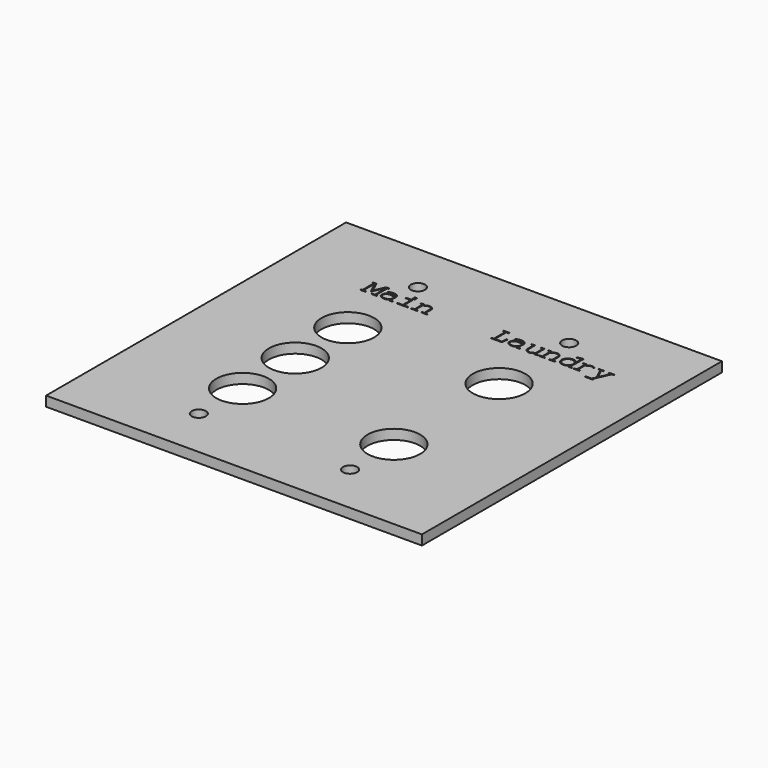
from build123d import *

# Parameters (mm, degrees)
SHELL_W          = 0.880734
SHELL_H          = 0.704587
EXTRUDE004_DEPTH = 2
SKETCH_W         = 114.3
SKETCH_H         = 114.046
SKETCH_R         = 8
SKETCH_R_2       = 2.16
EXTRUDE_DEPTH    = 3


with BuildPart() as labels:
    # Shell → Extrude004 (new body)
    with BuildSketch(Plane(origin=(33.394184, 34.246578, 0), x_dir=(0, 1, 0), z_dir=(0, 0, 1))):
        with BuildLine():
            add(Edge.make_bspline(
                [(0.880028, -2.110404), (1.012138, -2.003064), (1.18278, -1.606734)],
                knots=[0, 0, 0, 1, 1, 1], degree=2))
            Line((0.880028, -2.110404), (1.089202, -2.371872))
            add(Edge.make_bspline(
                [(1.191037, -2.264532), (1.147, -2.32233), (1.089202, -2.371872)],
                knots=[0, 0, 0, 1, 1, 1], degree=2))
            add(Edge.make_bspline(
                [(1.595624, -1.262697), (1.595624, -1.802147), (1.191037, -2.264532)],
                knots=[0, 0, 0, 1, 1, 1], degree=2))
            add(Edge.make_bspline(
                [(1.193789, -0.059945), (1.595624, -0.69022), (1.595624, -1.262697)],
                knots=[0, 0, 0, 1, 1, 1], degree=2))
            add(Edge.make_bspline(
                [(0.995624, 0.267578), (1.177276, -0.032422), (1.193789, -0.059945)],
                knots=[0, 0, 0, 1, 1, 1], degree=2))
            Line((0.995624, 0.267578), (1.452505, 0.267578))
            Line((1.452505, 0.267578), (1.452505, 1.324459))
            Line((1.452505, 1.324459), (1.133239, 1.324459))
            Line((1.133239, 1.324459), (1.133239, 0.58134))
            Line((1.133239, 0.58134), (-1.927311, 0.58134))
            Line((-1.927311, 0.58134), (-1.927311, 1.324459))
            Line((-1.927311, 1.324459), (-2.246578, 1.324459))
            Line((-2.246578, 1.324459), (-2.246578, -0.437009))
            Line((-2.246578, -0.437009), (-1.927311, -0.437009))
            Line((-1.927311, -0.437009), (-1.927311, 0.267578))
            Line((-1.927311, 0.267578), (0.61856, 0.267578))
            add(Edge.make_bspline(
                [(0.731404, 0.107945), (0.673606, 0.190514), (0.61856, 0.267578)],
                knots=[0, 0, 0, 1, 1, 1], degree=2))
            add(Edge.make_bspline(
                [(1.276358, -1.270954), (1.276358, -0.731505), (0.731404, 0.107945)],
                knots=[0, 0, 0, 1, 1, 1], degree=2))
            add(Edge.make_bspline(
                [(1.18278, -1.606734), (1.276358, -1.405816), (1.276358, -1.270954)],
                knots=[0, 0, 0, 1, 1, 1], degree=2))
        make_face()
        Polygon((2.366267, 26.51345), (2.366267, 25.808862), (-1.952082, 25.808862), (-1.952082, 26.51345), (-2.246578, 26.51345), (-2.246578, 23.103358), (-0.300706, 22.932716), (-0.300706, 23.221706), (-1.952082, 23.397853), (-1.952082, 25.495101), (2.366267, 25.495101), (2.366267, 24.751982), (2.685533, 24.751982), (2.685533, 26.51345), align=None)
        with BuildLine():
            add(Edge.make_bspline(
                [(0.995624, 49.660239), (1.166267, 49.376752), (1.191037, 49.327211)],
                knots=[0, 0, 0, 1, 1, 1], degree=2))
            add(Edge.make_bspline(
                [(1.452505, 49.668495), (1.3259, 49.660239), (0.995624, 49.660239)],
                knots=[0, 0, 0, 1, 1, 1], degree=2))
            Line((1.452505, 49.668495), (1.452505, 50.717119))
            Line((1.452505, 50.717119), (1.133239, 50.717119))
            Line((1.133239, 50.717119), (1.133239, 49.974))
            Line((1.133239, 49.974), (-1.927311, 49.974))
            Line((-1.927311, 49.974), (-1.927311, 50.717119))
            Line((-1.927311, 50.717119), (-2.246578, 50.717119))
            Line((-2.246578, 50.717119), (-2.246578, 48.955651))
            Line((-2.246578, 48.955651), (-1.927311, 48.955651))
            Line((-1.927311, 48.955651), (-1.927311, 49.660239))
            Line((-1.927311, 49.660239), (0.621312, 49.660239))
            add(Edge.make_bspline(
                [(0.646083, 49.660239), (0.637826, 49.660239), (0.621312, 49.660239)],
                knots=[0, 0, 0, 1, 1, 1], degree=2))
            add(Edge.make_bspline(
                [(1.276358, 48.179505), (1.276358, 48.751982), (0.646083, 49.660239)],
                knots=[0, 0, 0, 1, 1, 1], degree=2))
            add(Edge.make_bspline(
                [(0.973606, 47.40611), (1.276358, 47.783174), (1.276358, 48.179505)],
                knots=[0, 0, 0, 1, 1, 1], degree=2))
            add(Edge.make_bspline(
                [(0.346083, 47.018037), (0.651588, 47.018037), (0.973606, 47.40611)],
                knots=[0, 0, 0, 1, 1, 1], degree=2))
            Line((0.346083, 47.018037), (-1.927311, 47.018037))
            Line((-1.927311, 47.018037), (-1.927311, 47.722624))
            Line((-1.927311, 47.722624), (-2.246578, 47.722624))
            Line((-2.246578, 47.722624), (-2.246578, 45.961156))
            Line((-2.246578, 45.961156), (-1.927311, 45.961156))
            Line((-1.927311, 45.961156), (-1.927311, 46.704275))
            Line((-1.927311, 46.704275), (0.343331, 46.704275))
            add(Edge.make_bspline(
                [(1.119478, 47.086844), (0.736909, 46.704275), (0.343331, 46.704275)],
                knots=[0, 0, 0, 1, 1, 1], degree=2))
            add(Edge.make_bspline(
                [(1.595624, 48.154734), (1.595624, 47.574), (1.119478, 47.086844)],
                knots=[0, 0, 0, 1, 1, 1], degree=2))
            add(Edge.make_bspline(
                [(1.191037, 49.327211), (1.595624, 48.64189), (1.595624, 48.154734)],
                knots=[0, 0, 0, 1, 1, 1], degree=2))
        make_face()
        with Locations((2.421312, 53.359321)):
            Rectangle(SHELL_W, SHELL_H)
        Polygon((1.133239, 55.120789), (1.133239, 53.535468), (-1.927311, 53.535468), (-1.927311, 55.120789), (-2.246578, 55.120789), (-2.246578, 51.774), (-1.927311, 51.774), (-1.927311, 53.221706), (1.452505, 53.221706), (1.452505, 55.120789), align=None)
        with BuildLine():
            Line((-1.927311, 56.529963), (-1.927311, 57.273083))
            Line((-1.927311, 57.273083), (0.252505, 57.273083))
            add(Edge.make_bspline(
                [(1.006634, 57.67767), (0.681863, 57.273083), (0.252505, 57.273083)],
                knots=[0, 0, 0, 1, 1, 1], degree=2))
            add(Edge.make_bspline(
                [(1.452505, 59.073083), (1.452505, 58.228128), (1.006634, 57.67767)],
                knots=[0, 0, 0, 1, 1, 1], degree=2))
            add(Edge.make_bspline(
                [(1.265349, 60.063908), (1.452505, 59.452899), (1.452505, 59.073083)],
                knots=[0, 0, 0, 1, 1, 1], degree=2))
            add(Edge.make_bspline(
                [(1.078193, 60.57033), (1.078193, 60.57033), (1.265349, 60.063908)],
                knots=[0, 0, 0, 1, 1, 1], degree=2))
            Line((1.078193, 60.57033), (0.869019, 60.451982))
            add(Edge.make_bspline(
                [(1.133239, 59.07033), (1.133239, 59.615284), (0.869019, 60.451982)],
                knots=[0, 0, 0, 1, 1, 1], degree=2))
            add(Edge.make_bspline(
                [(0.932322, 58.079505), (1.133239, 58.517119), (1.133239, 59.07033)],
                knots=[0, 0, 0, 1, 1, 1], degree=2))
            add(Edge.make_bspline(
                [(0.4259, 57.586844), (0.71489, 57.586844), (0.932322, 58.079505)],
                knots=[0, 0, 0, 1, 1, 1], degree=2))
            Line((0.4259, 57.586844), (0.313056, 57.586844))
            add(Edge.make_bspline(
                [(0.538744, 59.188679), (0.538744, 58.464826), (0.313056, 57.586844)],
                knots=[0, 0, 0, 1, 1, 1], degree=2))
            add(Edge.make_bspline(
                [(0.266267, 60.11345), (0.538744, 59.697853), (0.538744, 59.188679)],
                knots=[0, 0, 0, 1, 1, 1], degree=2))
            add(Edge.make_bspline(
                [(-0.867678, 60.757486), (-0.138321, 60.757486), (0.266267, 60.11345)],
                knots=[0, 0, 0, 1, 1, 1], degree=2))
            add(Edge.make_bspline(
                [(-1.789697, 60.336385), (-1.412633, 60.757486), (-0.867678, 60.757486)],
                knots=[0, 0, 0, 1, 1, 1], degree=2))
            add(Edge.make_bspline(
                [(-2.246578, 59.053817), (-2.246578, 59.818954), (-1.789697, 60.336385)],
                knots=[0, 0, 0, 1, 1, 1], degree=2))
            add(Edge.make_bspline(
                [(-2.246578, 58.855651), (-2.246578, 58.951982), (-2.246578, 59.053817)],
                knots=[0, 0, 0, 1, 1, 1], degree=2))
            add(Edge.make_bspline(
                [(-1.742908, 57.586844), (-2.246578, 58.120789), (-2.246578, 58.855651)],
                knots=[0, 0, 0, 1, 1, 1], degree=2))
            Line((-1.742908, 57.586844), (-2.246578, 57.586844))
            Line((-2.246578, 57.586844), (-2.246578, 56.529963))
            Line((-2.246578, 56.529963), (-1.927311, 56.529963))
        make_face()
        with BuildLine():
            add(Edge.make_bspline(
                [(-0.030981, 57.586844), (0.219478, 58.492349), (0.219478, 59.191431)],
                knots=[0, 0, 0, 1, 1, 1], degree=2))
            Line((-0.030981, 57.586844), (-1.222724, 57.586844))
            add(Edge.make_bspline(
                [(-1.539238, 57.903358), (-1.415385, 57.757486), (-1.222724, 57.586844)],
                knots=[0, 0, 0, 1, 1, 1], degree=2))
            add(Edge.make_bspline(
                [(-1.927311, 59.053817), (-1.927311, 58.362991), (-1.539238, 57.903358)],
                knots=[0, 0, 0, 1, 1, 1], degree=2))
            add(Edge.make_bspline(
                [(-1.742908, 59.846477), (-1.927311, 59.485927), (-1.927311, 59.053817)],
                knots=[0, 0, 0, 1, 1, 1], degree=2))
            add(Edge.make_bspline(
                [(-0.867678, 60.443725), (-1.431899, 60.443725), (-1.742908, 59.846477)],
                knots=[0, 0, 0, 1, 1, 1], degree=2))
            add(Edge.make_bspline(
                [(-0.229146, 60.20978), (-0.512633, 60.443725), (-0.867678, 60.443725)],
                knots=[0, 0, 0, 1, 1, 1], degree=2))
            add(Edge.make_bspline(
                [(0.219478, 59.191431), (0.219478, 59.83822), (-0.229146, 60.20978)],
                knots=[0, 0, 0, 1, 1, 1], degree=2))
        make_face(mode=Mode.SUBTRACT)
        Polygon((-1.927311, 61.676752), (2.366267, 61.676752), (2.366267, 61.285927), (2.685533, 61.285927), (2.685533, 62.276752), (-0.597954, 63.729963), (2.580945, 65.161156), (2.685533, 65.161156), (2.685533, 66.218037), (2.366267, 66.218037), (2.366267, 65.827211), (-1.927311, 65.827211), (-1.927311, 66.218037), (-2.246578, 66.218037), (-2.246578, 64.632716), (-1.927311, 64.632716), (-1.927311, 65.51345), (2.366267, 65.51345), (-1.170431, 63.807028), (-1.170431, 63.628128), (2.366267, 62.031798), (2.366267, 61.990514), (-1.927311, 61.990514), (-1.927311, 62.871248), (-2.246578, 62.871248), (-2.246578, 61.285927), (-1.927311, 61.285927), align=None)
        with BuildLine():
            add(Edge.make_bspline(
                [(0.995624, 10.836385), (1.166267, 10.552899), (1.191037, 10.503358)],
                knots=[0, 0, 0, 1, 1, 1], degree=2))
            add(Edge.make_bspline(
                [(1.452505, 10.844642), (1.3259, 10.836385), (0.995624, 10.836385)],
                knots=[0, 0, 0, 1, 1, 1], degree=2))
            Line((1.452505, 10.844642), (1.452505, 11.893266))
            Line((1.452505, 11.893266), (1.133239, 11.893266))
            Line((1.133239, 11.893266), (1.133239, 11.150147))
            Line((1.133239, 11.150147), (-1.927311, 11.150147))
            Line((-1.927311, 11.150147), (-1.927311, 11.893266))
            Line((-1.927311, 11.893266), (-2.246578, 11.893266))
            Line((-2.246578, 11.893266), (-2.246578, 10.131798))
            Line((-2.246578, 10.131798), (-1.927311, 10.131798))
            Line((-1.927311, 10.131798), (-1.927311, 10.836385))
            Line((-1.927311, 10.836385), (0.621312, 10.836385))
            add(Edge.make_bspline(
                [(0.646083, 10.836385), (0.637826, 10.836385), (0.621312, 10.836385)],
                knots=[0, 0, 0, 1, 1, 1], degree=2))
            add(Edge.make_bspline(
                [(1.276358, 9.355651), (1.276358, 9.928128), (0.646083, 10.836385)],
                knots=[0, 0, 0, 1, 1, 1], degree=2))
            add(Edge.make_bspline(
                [(0.973606, 8.582257), (1.276358, 8.959321), (1.276358, 9.355651)],
                knots=[0, 0, 0, 1, 1, 1], degree=2))
            add(Edge.make_bspline(
                [(0.346083, 8.194184), (0.651588, 8.194184), (0.973606, 8.582257)],
                knots=[0, 0, 0, 1, 1, 1], degree=2))
            Line((0.346083, 8.194184), (-1.927311, 8.194184))
            Line((-1.927311, 8.194184), (-1.927311, 8.898771))
            Line((-1.927311, 8.898771), (-2.246578, 8.898771))
            Line((-2.246578, 8.898771), (-2.246578, 7.137303))
            Line((-2.246578, 7.137303), (-1.927311, 7.137303))
            Line((-1.927311, 7.137303), (-1.927311, 7.880422))
            Line((-1.927311, 7.880422), (0.343331, 7.880422))
            add(Edge.make_bspline(
                [(1.119478, 8.262991), (0.736909, 7.880422), (0.343331, 7.880422)],
                knots=[0, 0, 0, 1, 1, 1], degree=2))
            add(Edge.make_bspline(
                [(1.595624, 9.330881), (1.595624, 8.750147), (1.119478, 8.262991)],
                knots=[0, 0, 0, 1, 1, 1], degree=2))
            add(Edge.make_bspline(
                [(1.191037, 10.503358), (1.595624, 9.818037), (1.595624, 9.330881)],
                knots=[0, 0, 0, 1, 1, 1], degree=2))
        make_face()
        Polygon((-3.798871, -3.255358), (-3.798871, -5.721413), (-3.479605, -5.721413), (-3.479605, -5.465449), (1.133239, -7.557193), (1.133239, -8.187468), (1.452505, -8.187468), (1.452505, -6.602147), (1.133239, -6.602147), (1.133239, -7.215908), (-1.935568, -5.845266), (1.133239, -4.403064), (1.133239, -5.016826), (1.452505, -5.016826), (1.452505, -3.431505), (1.133239, -3.431505), (1.133239, -4.06178), (-2.304376, -5.680128), (-3.479605, -5.11866), (-3.479605, -3.255358), align=None)
        with BuildLine():
            Line((-2.246578, 2.90978), (-2.246578, 1.940973))
            Line((-2.246578, 1.940973), (-1.927311, 1.940973))
            Line((-1.927311, 1.940973), (-1.927311, 2.596018))
            Line((-1.927311, 2.596018), (3.227734, 2.596018))
            Line((3.227734, 2.596018), (2.889202, 4.285927))
            Line((2.889202, 4.285927), (2.594707, 4.285927))
            Line((2.594707, 4.285927), (2.856175, 2.90978))
            Line((2.856175, 2.90978), (0.626817, 2.90978))
            add(Edge.make_bspline(
                [(0.824982, 3.063908), (0.728652, 2.975835), (0.626817, 2.90978)],
                knots=[0, 0, 0, 1, 1, 1], degree=2))
            add(Edge.make_bspline(
                [(1.452505, 4.511615), (1.452505, 3.639138), (0.824982, 3.063908)],
                knots=[0, 0, 0, 1, 1, 1], degree=2))
            add(Edge.make_bspline(
                [(0.992872, 5.783174), (1.452505, 5.240973), (1.452505, 4.511615)],
                knots=[0, 0, 0, 1, 1, 1], degree=2))
            add(Edge.make_bspline(
                [(-0.397036, 6.432716), (0.442413, 6.432716), (0.992872, 5.783174)],
                knots=[0, 0, 0, 1, 1, 1], degree=2))
            add(Edge.make_bspline(
                [(-1.608045, 5.962073), (-1.087862, 6.432716), (-0.397036, 6.432716)],
                knots=[0, 0, 0, 1, 1, 1], degree=2))
            add(Edge.make_bspline(
                [(-2.246578, 4.508862), (-2.246578, 5.389596), (-1.608045, 5.962073)],
                knots=[0, 0, 0, 1, 1, 1], degree=2))
            add(Edge.make_bspline(
                [(-2.221807, 4.197853), (-2.246578, 4.354734), (-2.246578, 4.508862)],
                knots=[0, 0, 0, 1, 1, 1], degree=2))
            add(Edge.make_bspline(
                [(-1.401623, 2.90978), (-2.089697, 3.37767), (-2.221807, 4.197853)],
                knots=[0, 0, 0, 1, 1, 1], degree=2))
            Line((-1.401623, 2.90978), (-2.246578, 2.90978))
        make_face()
        with BuildLine():
            add(Edge.make_bspline(
                [(-0.397036, 2.90978), (0.348835, 2.90978), (0.805716, 3.518037)],
                knots=[0, 0, 0, 1, 1, 1], degree=2))
            add(Edge.make_bspline(
                [(-1.390614, 3.295101), (-0.966761, 2.90978), (-0.397036, 2.90978)],
                knots=[0, 0, 0, 1, 1, 1], degree=2))
            add(Edge.make_bspline(
                [(-1.927311, 4.517119), (-1.927311, 3.782257), (-1.390614, 3.295101)],
                knots=[0, 0, 0, 1, 1, 1], degree=2))
            add(Edge.make_bspline(
                [(-1.572266, 5.535468), (-1.927311, 5.100606), (-1.927311, 4.517119)],
                knots=[0, 0, 0, 1, 1, 1], degree=2))
            add(Edge.make_bspline(
                [(-0.397036, 6.118954), (-1.115385, 6.118954), (-1.572266, 5.535468)],
                knots=[0, 0, 0, 1, 1, 1], degree=2))
            add(Edge.make_bspline(
                [(0.563514, 5.766661), (0.139661, 6.118954), (-0.397036, 6.118954)],
                knots=[0, 0, 0, 1, 1, 1], degree=2))
            add(Edge.make_bspline(
                [(1.133239, 4.508862), (1.133239, 5.276752), (0.563514, 5.766661)],
                knots=[0, 0, 0, 1, 1, 1], degree=2))
            add(Edge.make_bspline(
                [(0.805716, 3.518037), (1.133239, 3.961156), (1.133239, 4.508862)],
                knots=[0, 0, 0, 1, 1, 1], degree=2))
        make_face(mode=Mode.SUBTRACT)
        with BuildLine():
            add(Edge.make_bspline(
                [(-1.789697, 13.440055), (-1.957587, 13.715284), (-1.987862, 13.762073)],
                knots=[0, 0, 0, 1, 1, 1], degree=2))
            Line((-1.789697, 13.440055), (-2.246578, 13.440055))
            Line((-2.246578, 13.440055), (-2.246578, 12.333633))
            Line((-2.246578, 12.333633), (-1.927311, 12.333633))
            Line((-1.927311, 12.333633), (-1.927311, 13.126294))
            Line((-1.927311, 13.126294), (1.452505, 13.126294))
            Line((1.452505, 13.126294), (1.452505, 14.119872))
            Line((1.452505, 14.119872), (1.133239, 14.119872))
            Line((1.133239, 14.119872), (1.133239, 13.440055))
            Line((1.133239, 13.440055), (-1.412633, 13.440055))
            add(Edge.make_bspline(
                [(-1.437403, 13.440055), (-1.429146, 13.440055), (-1.412633, 13.440055)],
                knots=[0, 0, 0, 1, 1, 1], degree=2))
            add(Edge.make_bspline(
                [(-2.070431, 14.865743), (-2.070431, 14.315284), (-1.437403, 13.440055)],
                knots=[0, 0, 0, 1, 1, 1], degree=2))
            add(Edge.make_bspline(
                [(-1.764926, 15.60611), (-2.070431, 15.248312), (-2.070431, 14.865743)],
                knots=[0, 0, 0, 1, 1, 1], degree=2))
            add(Edge.make_bspline(
                [(-1.134651, 15.983174), (-1.440155, 15.983174), (-1.764926, 15.60611)],
                knots=[0, 0, 0, 1, 1, 1], degree=2))
            Line((-1.134651, 15.983174), (-1.126394, 15.983174))
            Line((-1.126394, 15.983174), (1.452505, 15.983174))
            Line((1.452505, 15.983174), (1.452505, 17.001523))
            Line((1.452505, 17.001523), (1.133239, 17.001523))
            Line((1.133239, 17.001523), (1.133239, 16.296936))
            Line((1.133239, 16.296936), (-1.137403, 16.296936))
            add(Edge.make_bspline(
                [(-1.910798, 15.925376), (-1.528229, 16.296936), (-1.137403, 16.296936)],
                knots=[0, 0, 0, 1, 1, 1], degree=2))
            add(Edge.make_bspline(
                [(-2.389697, 14.893266), (-2.389697, 15.454734), (-1.910798, 15.925376)],
                knots=[0, 0, 0, 1, 1, 1], degree=2))
            add(Edge.make_bspline(
                [(-1.987862, 13.762073), (-2.389697, 14.422624), (-2.389697, 14.893266)],
                knots=[0, 0, 0, 1, 1, 1], degree=2))
        make_face()
        with BuildLine():
            Line((-1.927311, 17.70611), (-1.927311, 18.449229))
            Line((-1.927311, 18.449229), (0.252505, 18.449229))
            add(Edge.make_bspline(
                [(1.006634, 18.853817), (0.681863, 18.449229), (0.252505, 18.449229)],
                knots=[0, 0, 0, 1, 1, 1], degree=2))
            add(Edge.make_bspline(
                [(1.452505, 20.249229), (1.452505, 19.404275), (1.006634, 18.853817)],
                knots=[0, 0, 0, 1, 1, 1], degree=2))
            add(Edge.make_bspline(
                [(1.265349, 21.240055), (1.452505, 20.629046), (1.452505, 20.249229)],
                knots=[0, 0, 0, 1, 1, 1], degree=2))
            add(Edge.make_bspline(
                [(1.078193, 21.746477), (1.078193, 21.746477), (1.265349, 21.240055)],
                knots=[0, 0, 0, 1, 1, 1], degree=2))
            Line((1.078193, 21.746477), (0.869019, 21.628128))
            add(Edge.make_bspline(
                [(1.133239, 20.246477), (1.133239, 20.791431), (0.869019, 21.628128)],
                knots=[0, 0, 0, 1, 1, 1], degree=2))
            add(Edge.make_bspline(
                [(0.932322, 19.255651), (1.133239, 19.693266), (1.133239, 20.246477)],
                knots=[0, 0, 0, 1, 1, 1], degree=2))
            add(Edge.make_bspline(
                [(0.4259, 18.762991), (0.71489, 18.762991), (0.932322, 19.255651)],
                knots=[0, 0, 0, 1, 1, 1], degree=2))
            Line((0.4259, 18.762991), (0.313056, 18.762991))
            add(Edge.make_bspline(
                [(0.538744, 20.364826), (0.538744, 19.640973), (0.313056, 18.762991)],
                knots=[0, 0, 0, 1, 1, 1], degree=2))
            add(Edge.make_bspline(
                [(0.266267, 21.289596), (0.538744, 20.874), (0.538744, 20.364826)],
                knots=[0, 0, 0, 1, 1, 1], degree=2))
            add(Edge.make_bspline(
                [(-0.867678, 21.933633), (-0.138321, 21.933633), (0.266267, 21.289596)],
                knots=[0, 0, 0, 1, 1, 1], degree=2))
            add(Edge.make_bspline(
                [(-1.789697, 21.512532), (-1.412633, 21.933633), (-0.867678, 21.933633)],
                knots=[0, 0, 0, 1, 1, 1], degree=2))
            add(Edge.make_bspline(
                [(-2.246578, 20.229963), (-2.246578, 20.995101), (-1.789697, 21.512532)],
                knots=[0, 0, 0, 1, 1, 1], degree=2))
            add(Edge.make_bspline(
                [(-2.246578, 20.031798), (-2.246578, 20.128128), (-2.246578, 20.229963)],
                knots=[0, 0, 0, 1, 1, 1], degree=2))
            add(Edge.make_bspline(
                [(-1.742908, 18.762991), (-2.246578, 19.296936), (-2.246578, 20.031798)],
                knots=[0, 0, 0, 1, 1, 1], degree=2))
            Line((-1.742908, 18.762991), (-2.246578, 18.762991))
            Line((-2.246578, 18.762991), (-2.246578, 17.70611))
            Line((-2.246578, 17.70611), (-1.927311, 17.70611))
        make_face()
        with BuildLine():
            add(Edge.make_bspline(
                [(-0.030981, 18.762991), (0.219478, 19.668495), (0.219478, 20.367578)],
                knots=[0, 0, 0, 1, 1, 1], degree=2))
            Line((-0.030981, 18.762991), (-1.222724, 18.762991))
            add(Edge.make_bspline(
                [(-1.539238, 19.079505), (-1.415385, 18.933633), (-1.222724, 18.762991)],
                knots=[0, 0, 0, 1, 1, 1], degree=2))
            add(Edge.make_bspline(
                [(-1.927311, 20.229963), (-1.927311, 19.539138), (-1.539238, 19.079505)],
                knots=[0, 0, 0, 1, 1, 1], degree=2))
            add(Edge.make_bspline(
                [(-1.742908, 21.022624), (-1.927311, 20.662073), (-1.927311, 20.229963)],
                knots=[0, 0, 0, 1, 1, 1], degree=2))
            add(Edge.make_bspline(
                [(-0.867678, 21.619872), (-1.431899, 21.619872), (-1.742908, 21.022624)],
                knots=[0, 0, 0, 1, 1, 1], degree=2))
            add(Edge.make_bspline(
                [(-0.229146, 21.385927), (-0.512633, 21.619872), (-0.867678, 21.619872)],
                knots=[0, 0, 0, 1, 1, 1], degree=2))
            add(Edge.make_bspline(
                [(0.219478, 20.367578), (0.219478, 21.014367), (-0.229146, 21.385927)],
                knots=[0, 0, 0, 1, 1, 1], degree=2))
        make_face(mode=Mode.SUBTRACT)
    extrude(amount=-EXTRUDE004_DEPTH)


with BuildPart() as cut:
    # Sketch → Extrude (new body)
    with BuildSketch(Plane.XY):
        Rectangle(SKETCH_W, SKETCH_H)
        with Locations((-23, 15)):
            Circle(SKETCH_R, mode=Mode.SUBTRACT)
        with Locations((-23, 41.65)):
            Circle(SKETCH_R_2, mode=Mode.SUBTRACT)
        with Locations((-23, -41.65)):
            Circle(SKETCH_R_2, mode=Mode.SUBTRACT)
        with Locations((23, -41.65)):
            Circle(SKETCH_R_2, mode=Mode.SUBTRACT)
        with Locations((23, 41.65)):
            Circle(SKETCH_R_2, mode=Mode.SUBTRACT)
        with Locations((-23, -5)):
            Circle(SKETCH_R, mode=Mode.SUBTRACT)
        with Locations((-23, -25)):
            Circle(SKETCH_R, mode=Mode.SUBTRACT)
        with Locations((23, 15)):
            Circle(SKETCH_R, mode=Mode.SUBTRACT)
        with Locations((23, -25)):
            Circle(SKETCH_R, mode=Mode.SUBTRACT)
    extrude(amount=-EXTRUDE_DEPTH)

    # Cut: cut Labels
    add(labels.part, mode=Mode.SUBTRACT)


solid = cut.part
